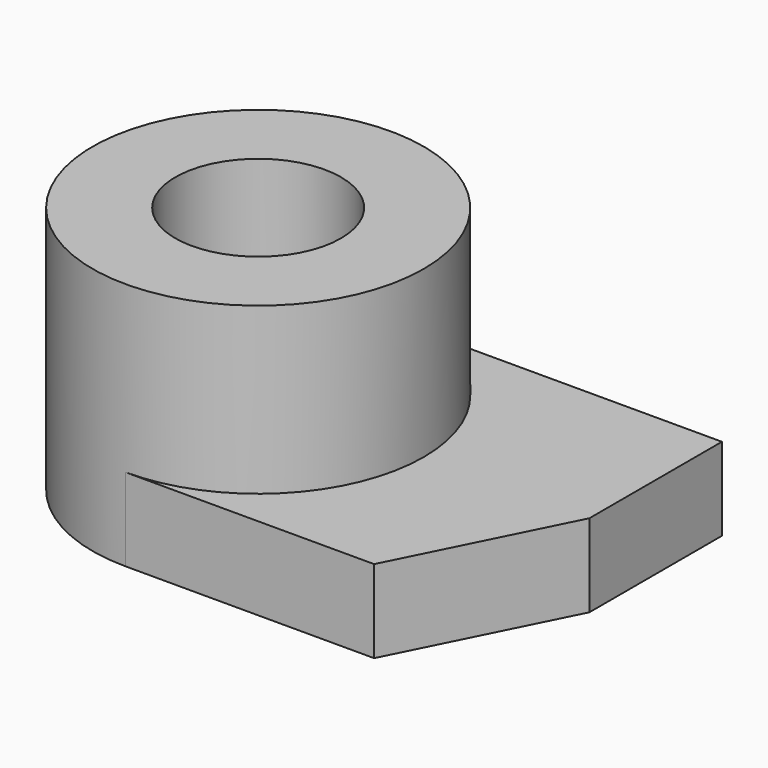
from build123d import *

# Parameters (mm, degrees)
F1_DEPTH = 6.35
F2_R     = 12.7
F3_DEPTH = 12.7
F4_R     = 6.35
F5_DEPTH = 19.05


with BuildPart() as f1:
    # F0 (on Top) → F1 (new body)
    with BuildSketch(Plane.XY):
        with BuildLine():
            ThreePointArc((0, 25.4), (-12.7, 12.7), (0, 0))
            Line((0, 0), (19.05, 0))
            Line((19.05, 0), (25.4, 12.7))
            Line((25.4, 12.7), (25.4, 25.4))
            Line((25.4, 25.4), (0, 25.4))
        make_face()
    extrude(amount=F1_DEPTH)

    # F2 (on face) → F3 (join)
    with BuildSketch(Plane.XY.offset(6.35)):
        with Locations((0, 12.7)):
            Circle(F2_R)
    extrude(amount=F3_DEPTH)

    # F4 (on face) → F5 (cut)
    with BuildSketch(Plane.XY.offset(19.05)):
        with Locations((0, 12.7)):
            Circle(F4_R)
    extrude(amount=-F5_DEPTH, mode=Mode.SUBTRACT)


solid = f1.part
